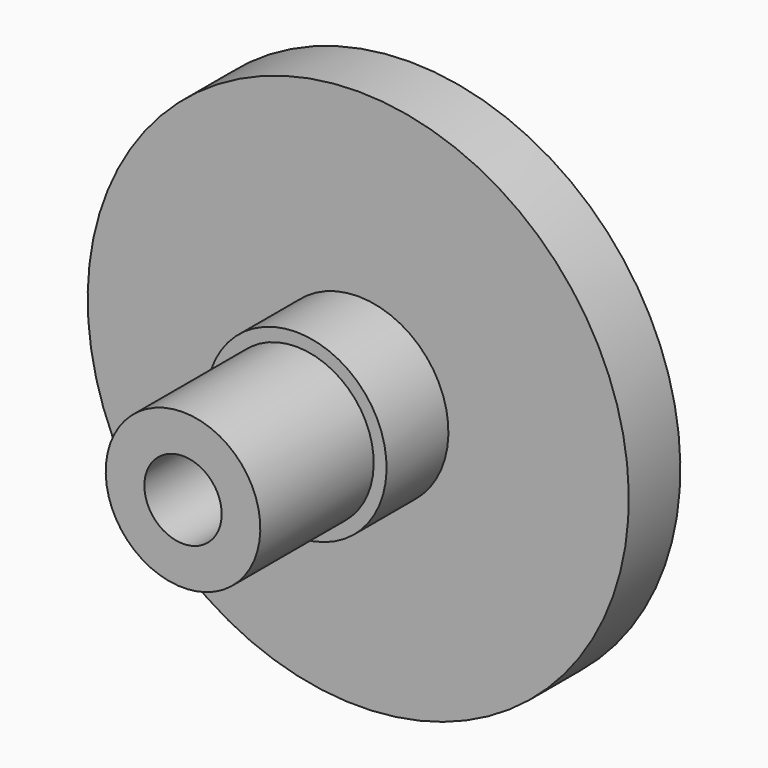
from build123d import *

# Parameters (mm, degrees)
F0_W = 11
F0_H = 3


with BuildPart() as f1:
    # F0 (on Right) → F1 (revolve)
    with BuildSketch(Plane.YZ):
        with Locations((-5.5, 4.5)):
            Rectangle(F0_W, F0_H)
    revolve(axis=Axis((0, -5.5, 0), (0, -1, 0)))


with BuildPart() as f3:
    # F2 (on Right) → F3 (revolve)
    with BuildSketch(Plane.YZ):
        Polygon((0, 7), (0, 3), (11, 3), (11, 21), (6, 21), (6, 7), align=None)
    revolve(axis=Axis((0, 16.702523, 0), (0, 1, 0)))


solid = Compound([f1.part, f3.part])
